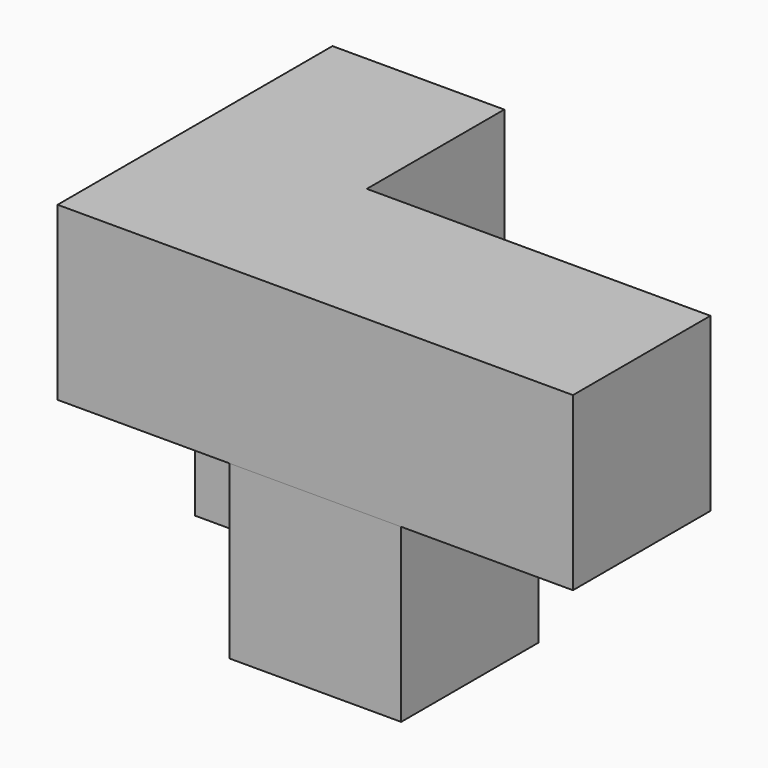
from build123d import *

# Parameters (mm, degrees)
F1_DEPTH = 19.05
F2_W     = 19.05
F2_H     = 19.05
F3_DEPTH = 19.05


with BuildPart() as f1:
    # F0 (on Top) → F1 (new body)
    with BuildSketch(Plane.XY):
        Polygon((0, 38.1), (0, 0), (57.15, 0), (57.15, 19.05), (19.05, 19.05), (19.05, 38.1), align=None)
    extrude(amount=F1_DEPTH)


with BuildPart() as f3:
    # F2 (on face) → F3 (new body)
    with BuildSketch(Plane(origin=(0, 0, 0), x_dir=(1, 0, 0), z_dir=(0, 0, -1))):
        with Locations((9.525, -28.575)):
            Rectangle(F2_W, F2_H)
        with Locations((28.575, -9.525)):
            Rectangle(F2_W, F2_H)
    extrude(amount=F3_DEPTH)


solid = Compound([f1.part, f3.part])
